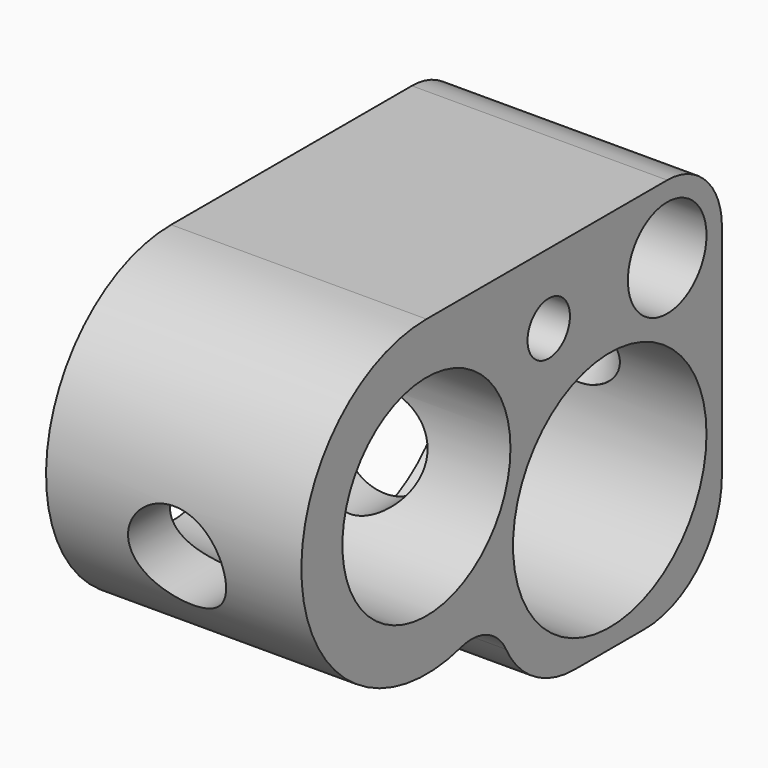
from build123d import *

# Parameters (mm, degrees)
F0_R          = 12.55
F0_R_2        = 10.9
F0_R_3        = 2.75
F0_R_4        = 5.1
F1_DEPTH      = 13.25
F2_R          = 10
F3_R          = 5
F4_R          = 3
F5_DEPTH      = 14.5510001
F5_DEPTH_BACK = 40.0072913958
F4_R_2        = 5
F6_DEPTH      = 12.5
F6_DEPTH_BACK = 40.0072913958


with BuildPart() as f1:
    # F0 (on Right) → F1 (new body, symmetric)
    with BuildSketch(Plane.YZ):
        with BuildLine():
            Line((7.45, 25.2829590551), (-23.7829060836, 25.2829590551))
            ThreePointArc((-23.7829060836, 25.2829590551), (-39.2686382031, 4.2232189691), (-14.55, -4.280278967))
            Line((-14.55, -4.280278967), (-14.55, -14.55))
            Line((-14.55, -14.55), (14.55, -14.55))
            Line((14.55, -14.55), (14.55, 18.1829590551))
            ThreePointArc((14.55, 18.1829590551), (12.4704581464, 23.2034172015), (7.45, 25.2829590551))
        make_face()
        Circle(F0_R, mode=Mode.SUBTRACT)
        with Locations((-23.7829060836, 9.059573843)):
            Circle(F0_R_2, mode=Mode.SUBTRACT)
        with Locations((-7.9205860656, 17.9829590551)):
            Circle(F0_R_3, mode=Mode.SUBTRACT)
        with Locations((7.45, 18.1829590551)):
            Circle(F0_R_4, mode=Mode.SUBTRACT)
    extrude(amount=F1_DEPTH, both=True)

    # F2
    f2_edges = [f1.edges().sort_by_distance(p)[0] for p in [
        (0, -23.782906, 25.282959),
        (0, 14.55, 18.182959),
        (0, 7.45, 25.282959),
        (0, -14.55, -14.55),
        (0, 14.55, -14.55),
    ]]
    fillet(f2_edges, radius=F2_R)

    # F3
    f3_edges = [f1.edges().sort_by_distance(p)[0] for p in [
        (0, -14.55, -4.280279),
    ]]
    fillet(f3_edges, radius=F3_R)

    # F4 (on Front) → F5 (cut, two sides)
    with BuildSketch(Plane.XZ) as f5_sk:
        with Locations((0, 5.45)):
            Circle(F4_R)
    extrude(amount=-F5_DEPTH, mode=Mode.SUBTRACT)
    extrude(f5_sk.sketch, amount=F5_DEPTH_BACK, mode=Mode.SUBTRACT)

    # F4 (on Front) → F6 (cut, two sides)
    with BuildSketch(Plane.XZ) as f6_sk:
        with Locations((0, 5.45)):
            Circle(F4_R_2)
        with Locations((0, 5.45)):
            Circle(F4_R, mode=Mode.SUBTRACT)
    extrude(amount=-F6_DEPTH, mode=Mode.SUBTRACT)
    extrude(f6_sk.sketch, amount=F6_DEPTH_BACK, mode=Mode.SUBTRACT)

    # F7 (on Right) → F8 (revolve, cut)
    with BuildSketch(Plane.YZ):
        Polygon((14.55, 5.45), (14.55, 8.45), (14.25, 8.45), (12.55, 10.45), (11.55, 10.45), (11.55, 5.45), align=None)
    revolve(axis=Axis((0, 7.275, 5.45), (0, 1, 0)), mode=Mode.SUBTRACT)


solid = f1.part
